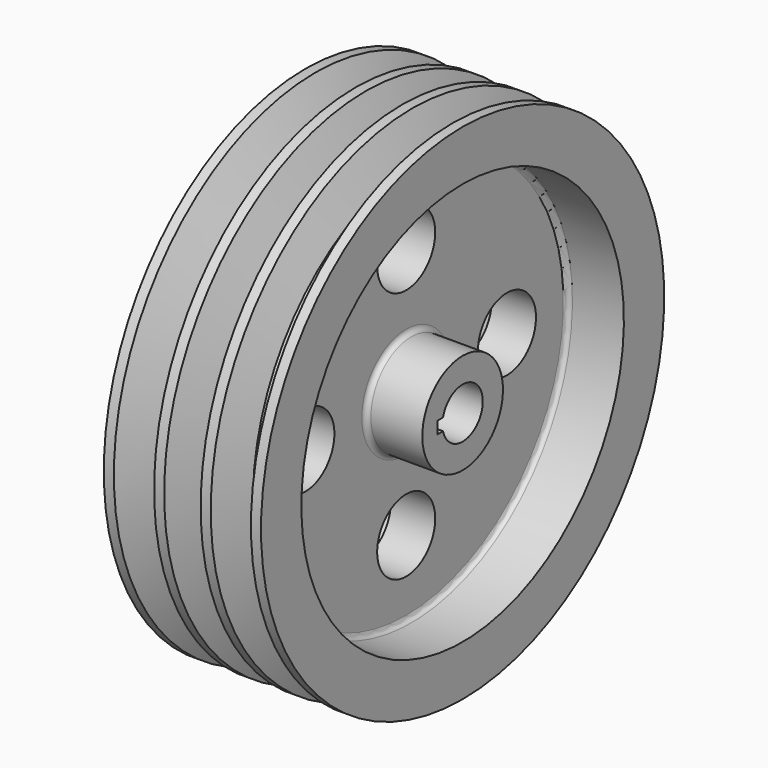
from build123d import *

# Parameters (mm, degrees)
F2_R     = 18
F3_DEPTH = 50.001
F5_DEPTH = 78.001
F6_R     = 2.5


with BuildPart() as f1:
    # F0 (on Front) → F1 (revolve)
    with BuildSketch(Plane.XZ):
        Polygon((-11, 25), (-39, 25), (-39, 12.5), (39, 12.5), (39, 25), (11, 25), (11, 100), (39, 100), (39, 125), (34, 125), (25.602928, 107), (20.602928, 107), (14.051464, 125), (9.051464, 125), (2.5, 107), (-2.5, 107), (-9.051464, 125), (-14.051464, 125), (-20.602928, 107), (-25.602928, 107), (-34, 125), (-39, 125), (-39, 100), (-11, 100), align=None)
    revolve(axis=Axis((0, 0, 0), (1, 0, 0)))

    # F2 (on face) → F3 (cut, through all)
    with BuildSketch(Plane(origin=(-11, 0, 0), x_dir=(0, -1, 0), z_dir=(-1, 0, 0))):
        with Locations((-62.5, 0)):
            Circle(F2_R)
        with Locations((0, -62.5)):
            Circle(F2_R)
        with Locations((62.5, 0)):
            Circle(F2_R)
        with Locations((0, 62.5)):
            Circle(F2_R)
    extrude(amount=-F3_DEPTH, mode=Mode.SUBTRACT)

    # F4 (on face) → F5 (cut, through all)
    with BuildSketch(Plane(origin=(-39, 0, 0), x_dir=(0, -1, 0), z_dir=(-1, 0, 0))):
        with BuildLine():
            Line((15.5, 3), (12.134661, 3))
            ThreePointArc((12.134661, 3), (12.408329, 1.511082), (12.5, 0))
            ThreePointArc((12.5, 0), (12.408329, -1.511082), (12.134661, -3))
            Line((12.134661, -3), (15.5, -3))
            Line((15.5, -3), (15.5, 3))
        make_face()
    extrude(amount=-F5_DEPTH, mode=Mode.SUBTRACT)

    # F6
    f6_edges = [f1.edges().sort_by_distance(p)[0] for p in [
        (-11, 0, -100),
        (-11, 0, -25),
        (11, 0, -25),
        (11, 0, -100),
    ]]
    fillet(f6_edges, radius=F6_R)


solid = f1.part
